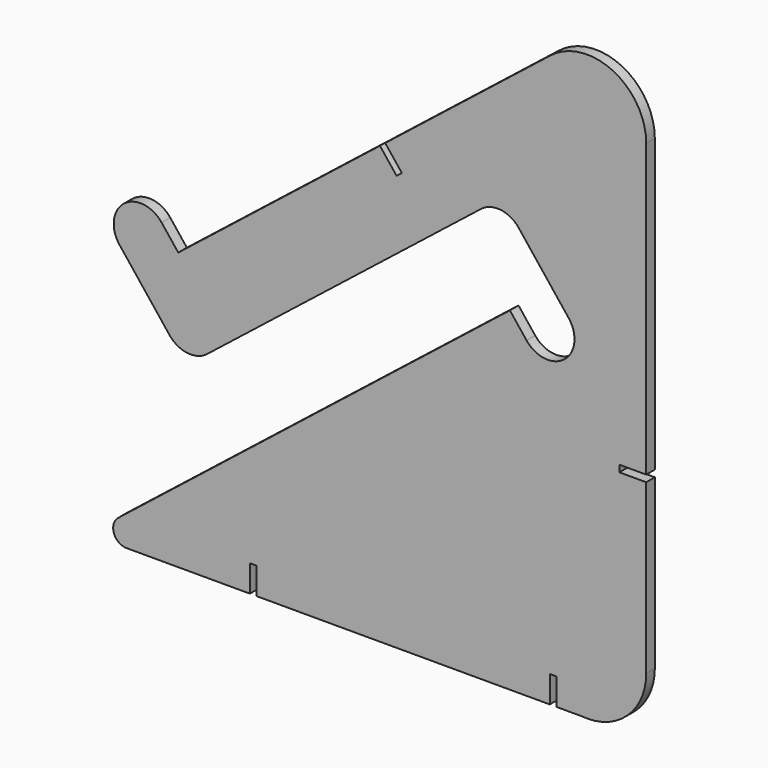
from build123d import *

# Parameters (mm, degrees)
F1_DEPTH = 5.08


with BuildPart() as f1:
    # F0 (on Front) → F1 (new body)
    with BuildSketch(Plane.XZ):
        with BuildLine():
            Line((-78.91387, 129.106149), (-86.796143, 139.064049))
            ThreePointArc((-86.796143, 139.064049), (-95.286354, 143.796683), (-104.636317, 141.139675))
            ThreePointArc((-104.636317, 141.139675), (-109.36895, 132.649465), (-106.711943, 123.299502))
            Line((-106.711943, 123.299502), (-83.065122, 93.425803))
            ThreePointArc((-83.065122, 93.425803), (-74.574912, 88.693169), (-65.224949, 91.350177))
            Line((-65.224949, 91.350177), (64.227746, 193.819732))
            ThreePointArc((64.227746, 193.819732), (73.577709, 196.47674), (82.067919, 191.744106))
            Line((82.067919, 191.744106), (105.714739, 161.870408))
            ThreePointArc((105.714739, 161.870408), (108.371747, 152.520445), (103.639113, 144.030234))
            ThreePointArc((103.639113, 144.030234), (94.289151, 141.373227), (85.79894, 146.105861))
            Line((85.79894, 146.105861), (77.916667, 156.06376))
            Line((77.916667, 156.06376), (-107.305268, 9.449514))
            ThreePointArc((-107.305268, 9.449514), (-109.361582, 2.384159), (-103.364131, -1.879436))
            Line((-103.364131, -1.879436), (-45.04985, -1.879436))
            Line((-45.04985, -1.879436), (-45.04985, 10.820564))
            Line((-45.04985, 10.820564), (-41.87485, 10.820564))
            Line((-41.87485, 10.820564), (-41.87485, -1.879436))
            Line((-41.87485, -1.879436), (96.761584, -1.879436))
            Line((96.761584, -1.879436), (96.761584, 10.820564))
            Line((96.761584, 10.820564), (99.936584, 10.820564))
            Line((99.936584, 10.820564), (99.936584, -1.879436))
            Line((99.936584, -1.879436), (111.823284, -1.879436))
            ThreePointArc((111.823284, -1.879436), (133.252209, 5.274321), (142.385621, 25.937231))
            Line((142.385621, 25.937231), (142.385621, 105.471752))
            Line((142.385621, 105.471752), (129.685621, 105.471752))
            Line((129.685621, 105.471752), (129.685621, 108.646752))
            Line((129.685621, 108.646752), (142.385621, 108.646752))
            Line((142.385621, 108.646752), (142.385621, 246.527939))
            ThreePointArc((142.385621, 246.527939), (126.613941, 271.678994), (97.104619, 268.435318))
            Line((97.104619, 268.435318), (18.94209, 206.564998))
            Line((18.94209, 206.564998), (26.824363, 196.607098))
            Line((26.824363, 196.607098), (24.334888, 194.63653))
            Line((24.334888, 194.63653), (16.452615, 204.594429))
            Line((16.452615, 204.594429), (-78.91387, 129.106149))
        make_face()
    extrude(amount=F1_DEPTH)


solid = f1.part
